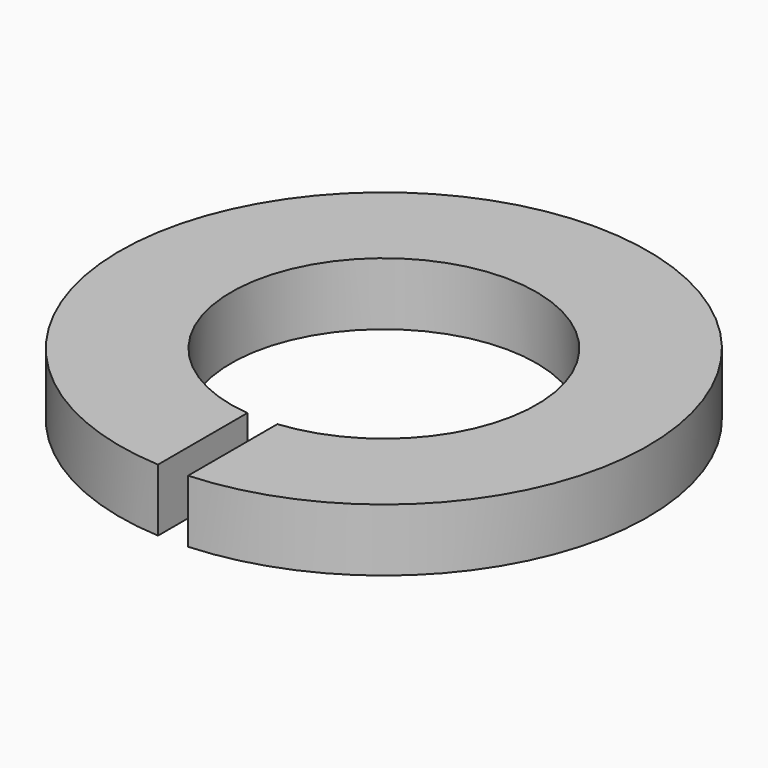
from build123d import *

# Parameters (mm, degrees)
PAD_DEPTH = 1.25


with BuildPart() as part:
    # Sketch → Pad (new body, symmetric)
    with BuildSketch(Plane.XY):
        with BuildLine():
            ThreePointArc((0.6, -6.07042), (0, 6.1), (-0.6, -6.07042))
            Line((-0.6, -10.532925), (-0.6, -6.07042))
            ThreePointArc((0.6, -10.532925), (0, 10.55), (-0.6, -10.532925))
            Line((0.6, -6.07042), (0.6, -10.532925))
        make_face()
    extrude(amount=PAD_DEPTH, both=True)


solid = part.part
